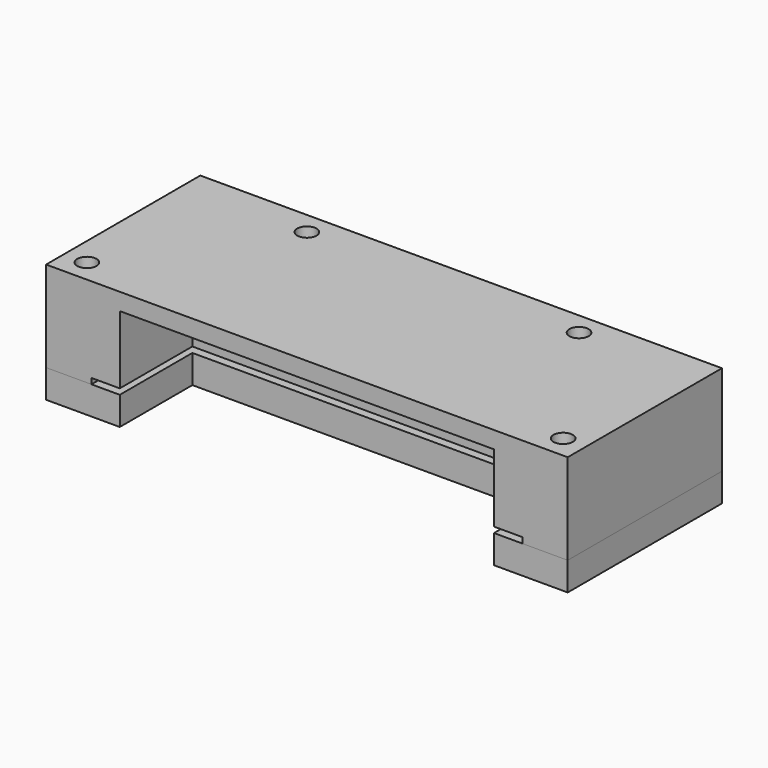
from build123d import *

# Parameters (mm, degrees)
CYLINDER003_R     = 1.7
CYLINDER003_DEPTH = 25
CYLINDER002_R     = 1.7
CYLINDER002_DEPTH = 25
CYLINDER001_R     = 1.7
CYLINDER001_DEPTH = 25
CYLINDER_R        = 1.7
CYLINDER_DEPTH    = 25
BOX_W             = 76
BOX_H             = 26
BOX_DEPTH         = 10
BOX002_W          = 66
BOX002_H          = 21
BOX002_DEPTH      = 22
BOX001_W          = 92
BOX001_H          = 34
BOX001_DEPTH      = 16
CYLINDER006_R     = 1.7
CYLINDER006_DEPTH = 25
CYLINDER005_R     = 1.7
CYLINDER005_DEPTH = 25
CYLINDER007_R     = 1.7
CYLINDER007_DEPTH = 25
CYLINDER004_R     = 1.7
CYLINDER004_DEPTH = 25
BOX004_W          = 66
BOX004_H          = 21
BOX004_DEPTH      = 22
BOX003_W          = 92
BOX003_H          = 34
BOX003_DEPTH      = 5


with BuildPart() as cylinder003:
    # Cylinder003 → Cylinder003 (new body)
    with BuildSketch(Plane(origin=(70, 30, -7), x_dir=(1, 0, 0), z_dir=(0, 0, 1))):
        Circle(CYLINDER003_R)
    extrude(amount=CYLINDER003_DEPTH)


with BuildPart() as cylinder002:
    # Cylinder002 → Cylinder002 (new body)
    with BuildSketch(Plane(origin=(22, 30, -7), x_dir=(1, 0, 0), z_dir=(0, 0, 1))):
        Circle(CYLINDER002_R)
    extrude(amount=CYLINDER002_DEPTH)


with BuildPart() as cylinder001:
    # Cylinder001 → Cylinder001 (new body)
    with BuildSketch(Plane(origin=(88, 4, -7), x_dir=(1, 0, 0), z_dir=(0, 0, 1))):
        Circle(CYLINDER001_R)
    extrude(amount=CYLINDER001_DEPTH)


with BuildPart() as fusion:
    # Cylinder → Cylinder (new body)
    with BuildSketch(Plane(origin=(4, 4, -7), x_dir=(1, 0, 0), z_dir=(0, 0, 1))):
        Circle(CYLINDER_R)
    extrude(amount=CYLINDER_DEPTH)

    # Fusion: union Cylinder003, Cylinder002, Cylinder001
    add(cylinder003.part)
    add(cylinder002.part)
    add(cylinder001.part)


with BuildPart() as cube:
    # Box → Box (new body)
    with BuildSketch(Plane.XY.offset(-9)):
        with Locations((38, 13)):
            Rectangle(BOX_W, BOX_H)
    extrude(amount=BOX_DEPTH)


with BuildPart() as cube002:
    # Box002 → Box002 (new body)
    with BuildSketch(Plane(origin=(5, -5, -9), x_dir=(1, 0, 0), z_dir=(0, 0, 1))):
        with Locations((33, 10.5)):
            Rectangle(BOX002_W, BOX002_H)
    extrude(amount=BOX002_DEPTH)


with BuildPart() as cut003:
    # Box001 → Box001 (new body)
    with BuildSketch(Plane(origin=(-8, 0, 0), x_dir=(1, 0, 0), z_dir=(0, 0, 1))):
        with Locations((46, 17)):
            Rectangle(BOX001_W, BOX001_H)
    extrude(amount=BOX001_DEPTH)

    # Cut: cut Cube002
    add(cube002.part, mode=Mode.SUBTRACT)

    # Cut001: cut Cube
    add(cube.part, mode=Mode.SUBTRACT)


with BuildPart() as cut003_1:
    # Cut001 placement: moved
    add(cut003.part.moved(Location((8, 0, 0))))

    # Cut003: cut Fusion
    add(fusion.part, mode=Mode.SUBTRACT)


with BuildPart() as cylinder006:
    # Cylinder006 → Cylinder006 (new body)
    with BuildSketch(Plane(origin=(22, 30, -7), x_dir=(1, 0, 0), z_dir=(0, 0, 1))):
        Circle(CYLINDER006_R)
    extrude(amount=CYLINDER006_DEPTH)


with BuildPart() as cylinder005:
    # Cylinder005 → Cylinder005 (new body)
    with BuildSketch(Plane(origin=(70, 30, -7), x_dir=(1, 0, 0), z_dir=(0, 0, 1))):
        Circle(CYLINDER005_R)
    extrude(amount=CYLINDER005_DEPTH)


with BuildPart() as cylinder007:
    # Cylinder007 → Cylinder007 (new body)
    with BuildSketch(Plane(origin=(88, 4, -7), x_dir=(1, 0, 0), z_dir=(0, 0, 1))):
        Circle(CYLINDER007_R)
    extrude(amount=CYLINDER007_DEPTH)


with BuildPart() as fusion001:
    # Cylinder004 → Cylinder004 (new body)
    with BuildSketch(Plane(origin=(4, 4, -7), x_dir=(1, 0, 0), z_dir=(0, 0, 1))):
        Circle(CYLINDER004_R)
    extrude(amount=CYLINDER004_DEPTH)

    # Fusion001: union Cylinder006, Cylinder005, Cylinder007
    add(cylinder006.part)
    add(cylinder005.part)
    add(cylinder007.part)


with BuildPart() as cube004:
    # Box004 → Box004 (new body)
    with BuildSketch(Plane(origin=(5, -5, -9), x_dir=(1, 0, 0), z_dir=(0, 0, 1))):
        with Locations((33, 10.5)):
            Rectangle(BOX004_W, BOX004_H)
    extrude(amount=BOX004_DEPTH)


with BuildPart() as cut004:
    # Box003 → Box003 (new body)
    with BuildSketch(Plane(origin=(-8, 0, -5), x_dir=(1, 0, 0), z_dir=(0, 0, 1))):
        with Locations((46, 17)):
            Rectangle(BOX003_W, BOX003_H)
    extrude(amount=BOX003_DEPTH)

    # Cut002: cut Cube004
    add(cube004.part, mode=Mode.SUBTRACT)


with BuildPart() as cut004_1:
    # Cut002 placement: moved
    add(cut004.part.moved(Location((8, 0, 0))))

    # Cut004: cut Fusion001
    add(fusion001.part, mode=Mode.SUBTRACT)


solid = Compound([cut003_1.part, cut004_1.part])
